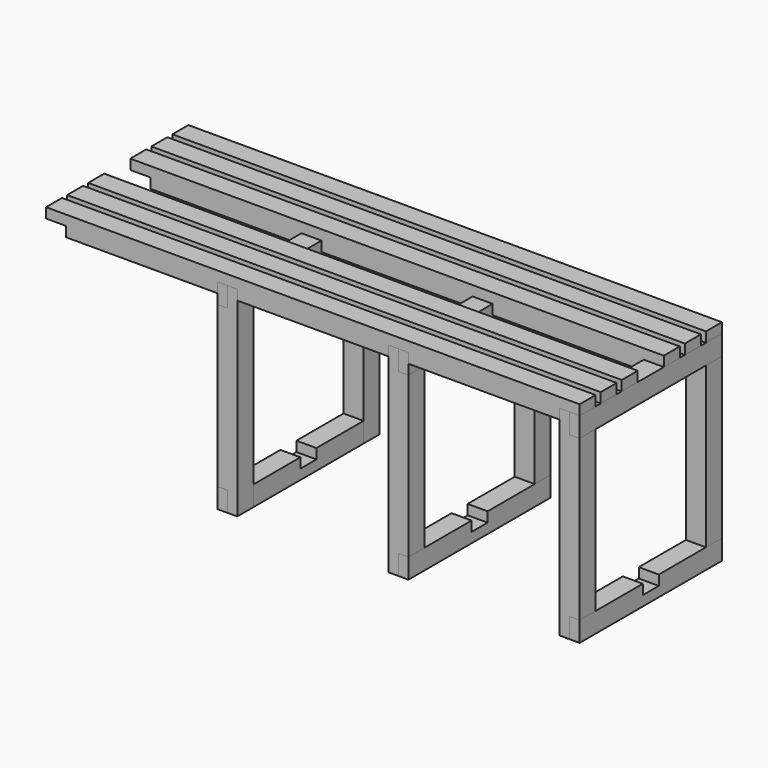
from build123d import *

# Parameters (mm, degrees)
PAD001_DEPTH             = 45
SKETCH002_W              = 45
SKETCH002_H              = 45
POCKET_DEPTH             = 22.5
CLONE001_PLACEMENT_ANGLE = 180
PAD003_DEPTH             = 45
CLONE003_PLACEMENT_ANGLE = 180
PAD002_DEPTH             = 45
CLONE007_PLACEMENT_ANGLE = 180
BODY031_PLACEMENT_ANGLE  = 180
PAD_DEPTH                = 22.5
CLONE014_PLACEMENT_ANGLE = 180
CLONE015_PLACEMENT_ANGLE = 180
CLONE016_PLACEMENT_ANGLE = 180
CLONE017_PLACEMENT_ANGLE = 180


with BuildPart() as short:
    # Sketch001 → Pad001 (new body)
    with BuildSketch(Plane.XY):
        Polygon((-600, 200), (-600, -200), (-577.5, -200), (-577.5, -155), (-555, -155), (-555, 155), (-577.5, 155), (-577.5, 200), align=None)
    extrude(amount=PAD001_DEPTH)

    # Sketch002 (on Face10 of Pad001) → Pocket (cut)
    with BuildSketch(Plane.XY.offset(45)):
        with Locations((-577.5, 0)):
            Rectangle(SKETCH002_W, SKETCH002_H)
    extrude(amount=-POCKET_DEPTH, mode=Mode.SUBTRACT)


with BuildPart() as body023:
    # Body023 base: copy of short
    add(short.part)


with BuildPart() as body023_1:
    # Clone placement: moved
    add(body023.part.moved(Location((385, 0, 0))))


with BuildPart() as body024:
    # Body024 base: copy of short
    add(short.part)


with BuildPart() as body024_1:
    # Clone001 placement: moved
    add(body024.part.rotate(Axis((0, 0, 0), (0, 0, 1)), CLONE001_PLACEMENT_ANGLE))


with BuildPart() as short_top:
    # Sketch004 → Pad003 (new body)
    with BuildSketch(Plane.XY.offset(405)):
        Polygon((-600, 200), (-600, -200), (-577.5, -200), (-577.5, -155), (-555, -155), (-555, 155), (-577.5, 155), (-577.5, 200), align=None)
    extrude(amount=PAD003_DEPTH)


with BuildPart() as body025:
    # Body025 base: copy of short_top
    add(short_top.part)


with BuildPart() as body025_1:
    # Clone002 placement: moved
    add(body025.part.moved(Location((385, 0, 0))))


with BuildPart() as body026:
    # Body026 base: copy of short_top
    add(short_top.part)


with BuildPart() as body026_1:
    # Clone003 placement: moved
    add(body026.part.rotate(Axis((0, 0, 0), (0, 0, 1)), CLONE003_PLACEMENT_ANGLE))


with BuildPart() as obj1:
    # Sketch003 → Pad002 (new body)
    with BuildSketch(Plane.XZ.offset(155)):
        Polygon((-555, 450), (-555, 0), (-577.5, 0), (-577.5, 45), (-600, 45), (-600, 405), (-577.5, 405), (-577.5, 450), align=None)
    extrude(amount=PAD002_DEPTH)


with BuildPart() as body028:
    # Body028 base: copy of obj1
    add(obj1.part)


with BuildPart() as body028_1:
    # Clone005 placement: moved
    add(body028.part.moved(Location((385, 0, 0))))


with BuildPart() as body029:
    # Body029 base: copy of obj1
    add(obj1.part)


with BuildPart() as body029_1:
    # Clone006 placement: moved
    add(body029.part.moved(Location((385, 355, 0))))


with BuildPart() as body030:
    # Body030 base: copy of obj1
    add(obj1.part)


with BuildPart() as body030_1:
    # Clone007 placement: moved
    add(body030.part.rotate(Axis((0, 0, 0), (0, 0, 1)), CLONE007_PLACEMENT_ANGLE))


with BuildPart() as body027:
    # Body027 base: copy of obj1
    add(obj1.part)


with BuildPart() as body027_1:
    # Clone004 placement: moved
    add(body027.part.moved(Location((0, 355, 0))))


with BuildPart() as body031:
    # Body031 base: copy of Body027
    add(body027_1.part)


with BuildPart() as body031_1:
    # Body031 placement: moved
    add(body031.part.rotate(Axis((0, 0, 0), (0, 0, 1)), BODY031_PLACEMENT_ANGLE))


with BuildPart() as body032:
    # Sketch → Pad (new body, symmetric)
    with BuildSketch(Plane.XZ):
        Polygon((-600, 45), (-600, 22.5), (-555, 22.5), (-555, 0), (-215, 0), (-215, 22.5), (-170, 22.5), (-170, 0), (170, 0), (170, 22.5), (215, 22.5), (215, 0), (555, 0), (555, 22.5), (600, 22.5), (600, 45), align=None)
    extrude(amount=PAD_DEPTH, both=True)


with BuildPart() as body032_1:
    # Clone009 placement: moved
    add(body032.part.moved(Location((0, 0, 427.5))))


with BuildPart() as body033:
    # Body033 base: copy of Body032
    add(body032_1.part)


with BuildPart() as body033_1:
    # Clone010 placement: moved
    add(body033.part.moved(Location((0, 177.5, 0))))


with BuildPart() as body034:
    # Body034 base: copy of Body032
    add(body032_1.part)


with BuildPart() as body034_1:
    # Body034 placement: moved
    add(body034.part.moved(Location((0, -177.5, 0))))


with BuildPart() as body035:
    # Body035 base: copy of Body032
    add(body032_1.part)


with BuildPart() as body035_1:
    # Clone012 placement: moved
    add(body035.part.moved(Location((0, 59.166667, 0))))


with BuildPart() as body036:
    # Body036 base: copy of Body032
    add(body032_1.part)


with BuildPart() as body036_1:
    # Body036 placement: moved
    add(body036.part.moved(Location((0, -59.166667, 0))))


with BuildPart() as body037:
    # Body037 base: copy of short
    add(short.part)


with BuildPart() as body037_1:
    # Clone014 placement: moved
    add(body037.part.moved(Location((-385, 0, 0))).rotate(Axis((-385, 0, 0), (0, 0, 1)), CLONE014_PLACEMENT_ANGLE))


with BuildPart() as body038:
    # Body038 base: copy of short_top
    add(short_top.part)


with BuildPart() as body038_1:
    # Clone015 placement: moved
    add(body038.part.moved(Location((-385, 0, 0))).rotate(Axis((-385, 0, 0), (0, 0, 1)), CLONE015_PLACEMENT_ANGLE))


with BuildPart() as body039:
    # Body039 base: copy of obj1
    add(obj1.part)


with BuildPart() as body039_1:
    # Clone016 placement: moved
    add(body039.part.moved(Location((-385, 0, 0))).rotate(Axis((-385, 0, 0), (0, 0, 1)), CLONE016_PLACEMENT_ANGLE))


with BuildPart() as body040:
    # Body040 base: copy of Body027
    add(body027_1.part)


with BuildPart() as body040_1:
    # Clone017 placement: moved
    add(body040.part.moved(Location((-385, 0, 0))).rotate(Axis((-385, 0, 0), (0, 0, 1)), CLONE017_PLACEMENT_ANGLE))


with BuildPart() as body041:
    # Body041 base: copy of Body032
    add(body032_1.part)


with BuildPart() as body041_1:
    # Clone018 placement: moved
    add(body041.part.moved(Location((0, 118.333333, 0))))


with BuildPart() as body042:
    # Body042 base: copy of Body032
    add(body032_1.part)


with BuildPart() as body042_1:
    # Clone019 placement: moved
    add(body042.part.moved(Location((0, -118.333333, 0))))


solid = Compound([body023_1.part, body024_1.part, body025_1.part, body026_1.part, body028_1.part, body029_1.part, body030_1.part, body031_1.part, body033_1.part, body034_1.part, body035_1.part, body036_1.part, body037_1.part, body038_1.part, body039_1.part, body040_1.part, body041_1.part, body042_1.part])
